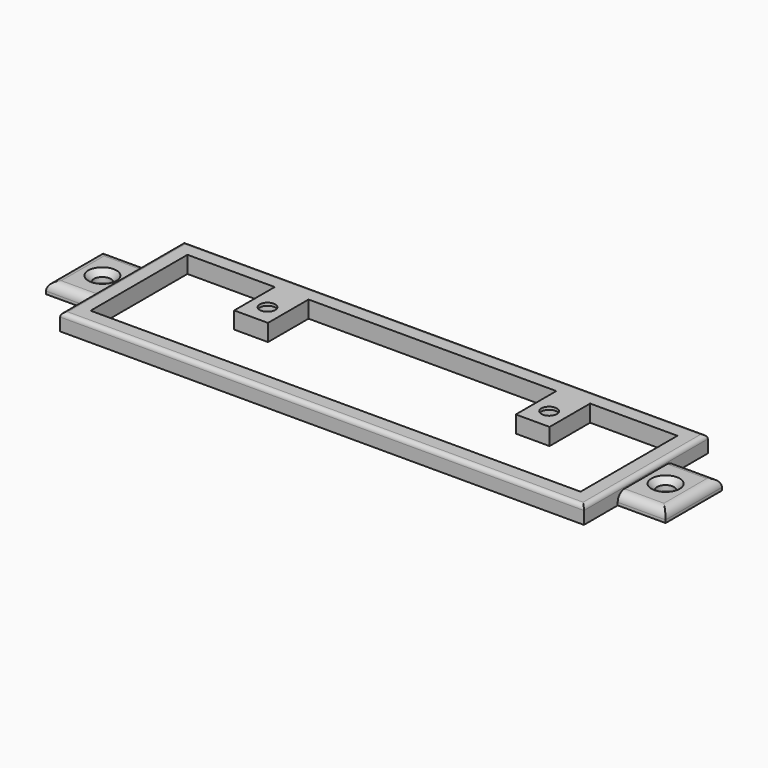
from build123d import *

# Parameters (mm, degrees)
F0_W           = 174.0000014603
F0_H           = 43.0000014603
F1_DEPTH       = 6
F0_W_2         = 17
F0_H_2         = 25
F0_R           = 3
F2_DEPTH       = 4
F3_W           = 12
F3_H           = 18
F4_DEPTH       = 6
F5_D           = 5.5
F5_CBORE_D     = 9.75
F5_CBORE_DEPTH = 5
F6_SIZE        = 2
F7_R           = 3
F8_R           = 1.5


with BuildPart() as f1:
    # F0 (on Top) → F1 (new body)
    with BuildSketch(Plane.XY):
        Polygon((93, -12.5), (93, 12.5), (93, 27.5), (-93, 27.5), (-93, 12.5), (-93, -12.5), (-93, -27.5), (93, -27.5), align=None)
        Rectangle(F0_W, F0_H, mode=Mode.SUBTRACT)
    extrude(amount=F1_DEPTH)

    # F0 (on Top) → F2 (join)
    with BuildSketch(Plane.XY):
        with Locations((101.5, 0)):
            Rectangle(F0_W_2, F0_H_2)
        with Locations((100, 0)):
            Circle(F0_R, mode=Mode.SUBTRACT)
        Polygon((93, -12.5), (93, 12.5), (93, 27.5), (-93, 27.5), (-93, 12.5), (-93, -12.5), (-93, -27.5), (93, -27.5), align=None)
        Rectangle(F0_W, F0_H, mode=Mode.SUBTRACT)
        with Locations((-101.5, 0)):
            Rectangle(F0_W_2, F0_H_2)
        with Locations((-100, 0)):
            Circle(F0_R, mode=Mode.SUBTRACT)
    extrude(amount=F2_DEPTH)

    # F3 (on face) → F4 (join)
    with BuildSketch(Plane.XY.offset(6)):
        with Locations((-50, 12.5000007302)):
            Rectangle(F3_W, F3_H)
        with Locations((50, 12.5000007302)):
            Rectangle(F3_W, F3_H)
    extrude(amount=-F4_DEPTH)

    # F5 (through all)
    with Locations(Plane(origin=(0, 0, 0), x_dir=(1, 0, 0), z_dir=(0, 0, -1))):
        with Locations((-50, -10.8), (50, -10.8)):
            CounterBoreHole(F5_D / 2, F5_CBORE_D / 2, F5_CBORE_DEPTH)

    # F6
    f6_edges = [f1.edges().sort_by_distance(p)[0] for p in [
        (97, 0, 4),
        (-103, 0, 4),
    ]]
    chamfer(f6_edges, length=F6_SIZE)

    # F7
    f7_edges = [f1.edges().sort_by_distance(p)[0] for p in [
        (-110, 0, 4),
        (-101.5, 12.5, 4),
        (-101.5, -12.5, 4),
        (101.5, 12.5, 4),
        (110, 0, 4),
        (101.5, -12.5, 4),
    ]]
    fillet(f7_edges, radius=F7_R)

    # F8
    f8_edges = [f1.edges().sort_by_distance(p)[0] for p in [
        (0, 27.5, 6),
        (-93, 0, 6),
        (0, -27.5, 6),
        (93, 0, 6),
    ]]
    fillet(f8_edges, radius=F8_R)


solid = f1.part
